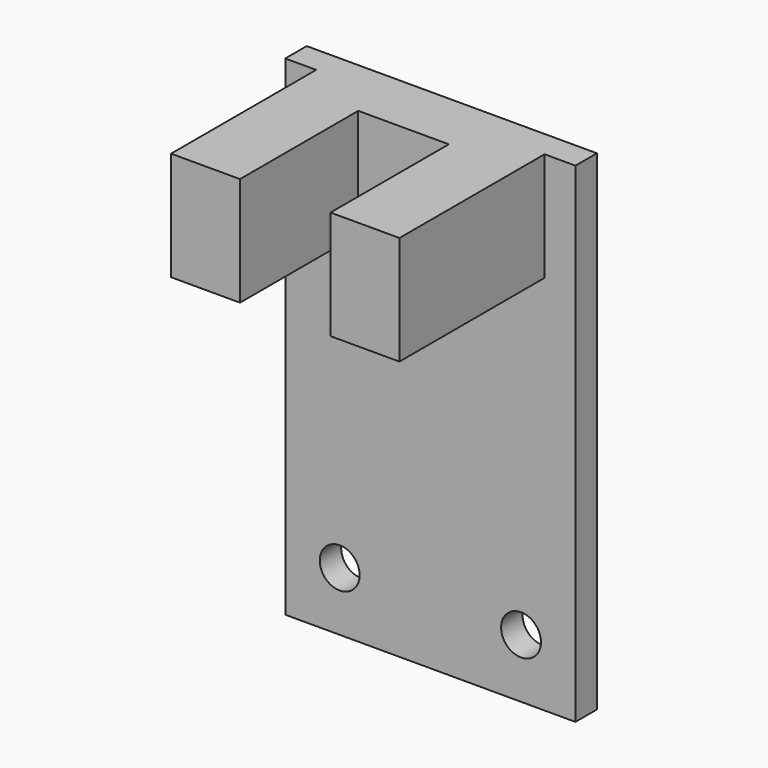
from build123d import *

# Parameters (mm, degrees)
F0_W     = 16
F0_H     = 27
F0_R     = 1.1
F1_DEPTH = 1.47957
F3_W     = 3.8
F3_H     = 6
F4_DEPTH = 10
F3_W_2   = 4.992
F5_DEPTH = 1.85


with BuildPart() as f1:
    # F0 (on Front) → F1 (new body)
    with BuildSketch(Plane.XZ):
        with Locations((8, -13.5)):
            Rectangle(F0_W, F0_H)
        with Locations((3, -23.75)):
            Circle(F0_R, mode=Mode.SUBTRACT)
        with Locations((13, -23.75)):
            Circle(F0_R, mode=Mode.SUBTRACT)
    extrude(amount=F1_DEPTH)

    # F3 (on face) → F4 (join)
    with BuildSketch(Plane.XZ.offset(1.47957)):
        with Locations((3.604, -3)):
            Rectangle(F3_W, F3_H)
        with Locations((12.396, -3)):
            Rectangle(F3_W, F3_H)
    extrude(amount=F4_DEPTH)

    # F3 (on face) → F5 (join)
    with BuildSketch(Plane.XZ.offset(1.47957)):
        with Locations((8, -3)):
            Rectangle(F3_W_2, F3_H)
    extrude(amount=F5_DEPTH)


solid = f1.part
